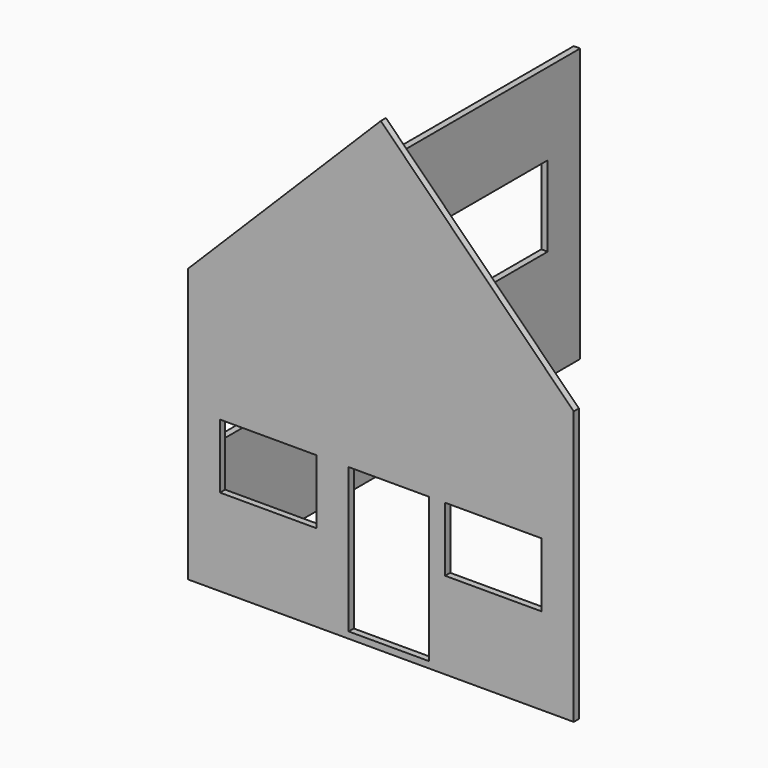
from build123d import *

# Parameters (mm, degrees)
F1_W     = 30
F1_H     = 20
F1_W_2   = 25
F1_H_2   = 45
F2_DEPTH = 2
F4_W     = 148
F4_H     = 85
F4_W_2   = 43.7282696366
F4_H_2   = 26.0375738144
F4_W_3   = 5.94137609
F4_H_3   = 25.0361301005
F4_W_4   = 44.3973988295
F5_DEPTH = 2


with BuildPart() as f2:
    # F1 (on Front) → F2 (new body, through all)
    with BuildSketch(Plane.XZ):
        Polygon((-120, 85), (-120, 0), (0, 0), (0, 85), (-60, 145), align=None)
        with Locations((-95, 37)):
            Rectangle(F1_W, F1_H, mode=Mode.SUBTRACT)
        with Locations((-57.5, 24.5)):
            Rectangle(F1_W_2, F1_H_2, mode=Mode.SUBTRACT)
        with Locations((-25, 37)):
            Rectangle(F1_W, F1_H, mode=Mode.SUBTRACT)
    extrude(amount=-F2_DEPTH)


with BuildPart() as f5:
    # F4 (on plane+point) → F5 (new body, through all)
    with BuildSketch(Plane.YZ.offset(-120)):
        with Locations((76, 42.5)):
            Rectangle(F4_W, F4_H)
        with Locations((33.5068628192, 47.5180596113)):
            Rectangle(F4_W_2, F4_H_2, mode=Mode.SUBTRACT)
        with Locations((77.0100802183, 47.0173377544)):
            Rectangle(F4_W_3, F4_H_3, mode=Mode.SUBTRACT)
        with Locations((115.1727959514, 47.0173377544)):
            Rectangle(F4_W_4, F4_H_3, mode=Mode.SUBTRACT)
    extrude(amount=F5_DEPTH)


solid = Compound([f2.part, f5.part])
